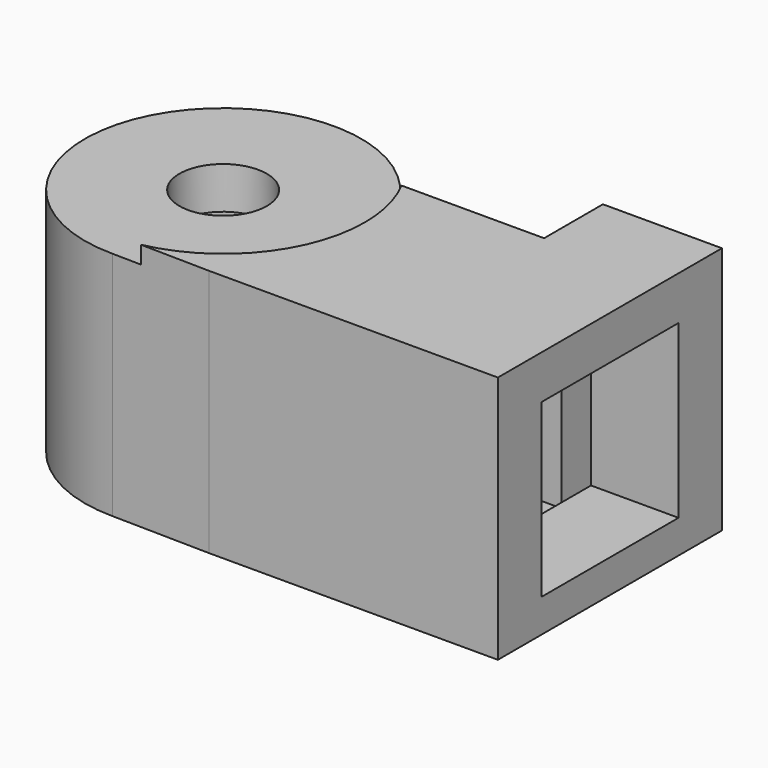
from build123d import *

# Parameters (mm, degrees)
F1_DEPTH  = 71
F2_W      = 49
F2_H      = 49
F3_DEPTH  = 25
F5_W      = 46
F5_H      = 55
F6_DEPTH  = 60
F8_R      = 34.5
F9_DEPTH  = 49
F10_R     = 12.5
F11_DEPTH = 25
F12_R     = 12.5
F13_DEPTH = 5


with BuildPart() as f1:
    # F0 (on Top) → F1 (new body)
    with BuildSketch(Plane.XY):
        with BuildLine():
            ThreePointArc((-35.5, 0.5), (-7.569282, 12.069282), (4, 40))
            ThreePointArc((4, 40), (2.763184, 49.807077), (-0.869811, 59))
            ThreePointArc((-0.869811, 59), (-69.490808, 60.121506), (-35.5, 0.5))
        make_face()
        with BuildLine():
            ThreePointArc((-0.869811, 59), (2.763184, 49.807077), (4, 40))
            ThreePointArc((4, 40), (-7.569282, 12.069282), (-35.5, 0.5))
            Line((-35.5, 0.5), (-7.508424, 0))
            Line((-7.508424, 0), (75, 0))
            Line((75, 0), (75, 80))
            Line((75, 80), (41, 80))
            Line((41, 80), (41, 59))
            Line((41, 59), (-0.869811, 59))
        make_face()
    extrude(amount=F1_DEPTH)

    # F2 (on face) → F3 (cut)
    with BuildSketch(Plane.YZ.offset(75)):
        with Locations((40, 34)):
            Rectangle(F2_W, F2_H)
    extrude(amount=-F3_DEPTH, mode=Mode.SUBTRACT)

    # F5 (on offset) → F6 (cut)
    with BuildSketch(Plane.YZ.offset(50)):
        with Locations((31, 35.5)):
            Rectangle(F5_W, F5_H)
    extrude(amount=-F6_DEPTH, mode=Mode.SUBTRACT)

    # F8 (on offset) → F9 (cut)
    with BuildSketch(Plane.XY.offset(5)):
        with Locations((-35.5, 40)):
            Circle(F8_R)
    extrude(amount=F9_DEPTH, mode=Mode.SUBTRACT)

    # F10 (on face) → F11 (cut)
    with BuildSketch(Plane.XY.offset(71)):
        with Locations((-35.5, 40)):
            Circle(F10_R)
    extrude(amount=-F11_DEPTH, mode=Mode.SUBTRACT)

    # F12 (on face) → F13 (cut)
    with BuildSketch(Plane.XY.offset(71)):
        with BuildLine():
            ThreePointArc((-27.234726, 0.352361), (-4.075538, 14.450965), (5, 40))
            ThreePointArc((5, 40), (3.798839, 49.790366), (0.266605, 59))
            Line((0.266605, 59), (-0.869811, 59))
            ThreePointArc((-0.869811, 59), (-69.490808, 60.121506), (-35.5, 0.5))
            Line((-35.5, 0.5), (-27.234726, 0.352361))
        make_face()
        with Locations((-35.5, 40)):
            Circle(F12_R, mode=Mode.SUBTRACT)
        with BuildLine():
            Line((-0.869811, 59), (0.266605, 59))
            ThreePointArc((0.266605, 59), (-72.168624, 57.194826), (-27.234726, 0.352361))
            Line((-27.234726, 0.352361), (-35.5, 0.5))
            ThreePointArc((-35.5, 0.5), (-69.490808, 60.121506), (-0.869811, 59))
        make_face()
    extrude(amount=-F13_DEPTH, mode=Mode.SUBTRACT)


solid = f1.part
